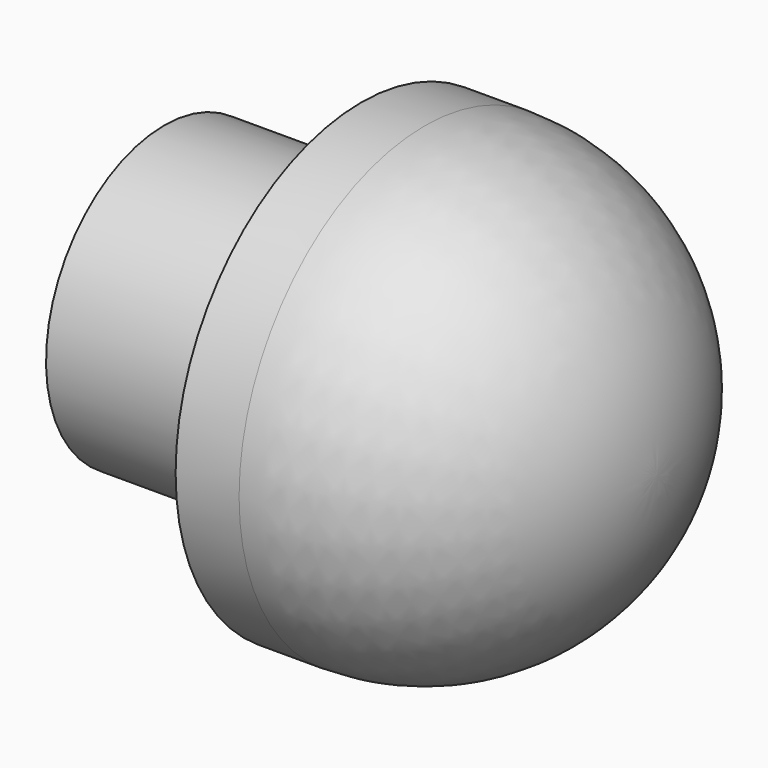
from build123d import *


with BuildPart() as f1:
    # F0 (on Front) → F1 (revolve)
    with BuildSketch(Plane.XZ):
        with BuildLine():
            ThreePointArc((30.494506, 0), (23.594617, 16.657804), (6.936813, 23.557693))
            Line((6.936813, 23.557693), (0.494506, 23.557693))
            Line((0.494506, 23.557693), (0.494506, 15))
            Line((0.494506, 15), (-19.505494, 15))
            Line((-19.505494, 15), (-19.505494, 0))
            Line((-19.505494, 0), (30.494506, 0))
        make_face()
    revolve(axis=Axis((5.494506, 0, 0), (1, 0, 0)))


solid = f1.part
